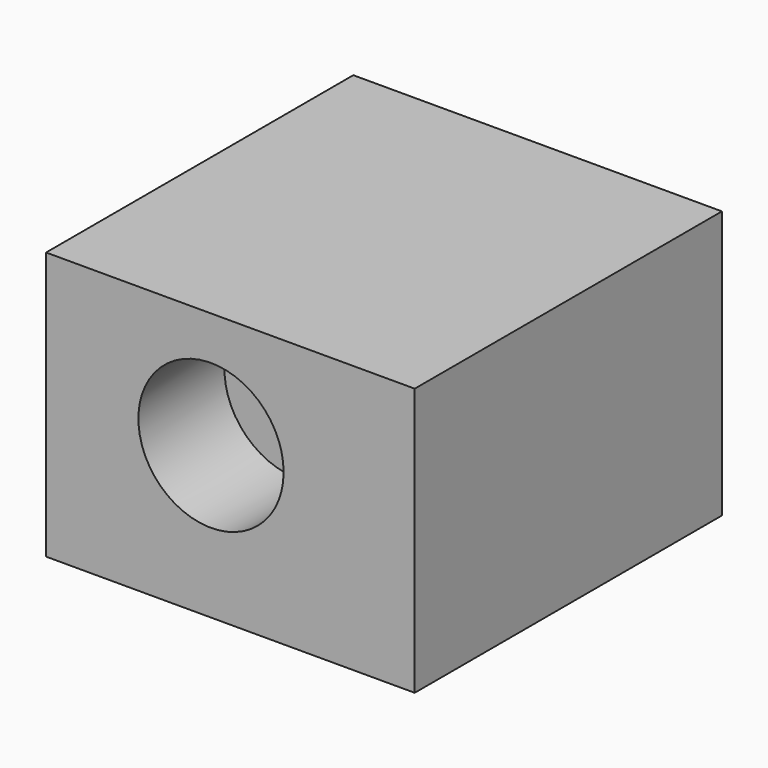
from build123d import *

# Parameters (mm, degrees)
F0_W     = 87.075323
F0_H     = 90.703461
F1_DEPTH = 63.246
F2_R     = 10.983628
F3_DEPTH = 25.4
F4_R     = 17.151938
F5_DEPTH = 25.4


with BuildPart() as f1:
    # F0 (on Top) → F1 (new body)
    with BuildSketch(Plane.XY):
        with Locations((6.969846, -0.381911)):
            Rectangle(F0_W, F0_H)
    extrude(amount=F1_DEPTH)

    # F2 (on Top) → F3 (cut)
    with BuildSketch(Plane.XY):
        Circle(F2_R)
    extrude(amount=-F3_DEPTH, mode=Mode.SUBTRACT)

    # F4 (on face) → F5 (cut)
    with BuildSketch(Plane.XZ.offset(45.733642)):
        with Locations((2.386932, 35.803996)):
            Circle(F4_R)
    extrude(amount=-F5_DEPTH, mode=Mode.SUBTRACT)


solid = f1.part
